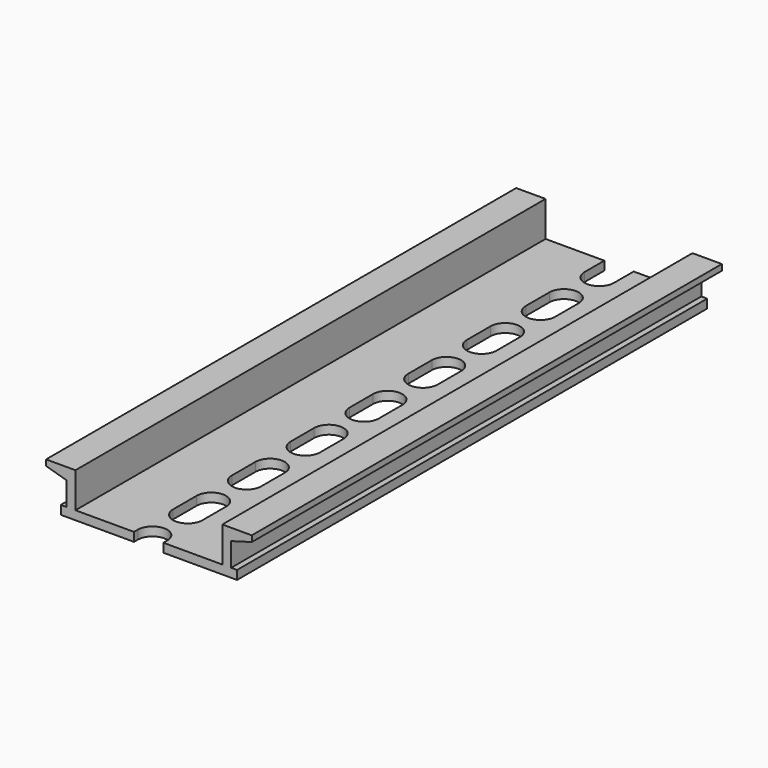
from build123d import *

# Parameters (mm, degrees)
PAD_DEPTH       = 100
POCKET_DEPTH    = 2
POCKET001_DEPTH = 3


with BuildPart() as part:
    # Sketch → Pad (new body)
    with BuildSketch(Plane.XZ):
        Polygon((0, 0), (-15, 0), (-15, 1.5), (-14, 1.5), (-14, 5.5), (-17.5, 6.5), (-17.5, 7.5), (-12.5, 7.5), (-12.5, 1.5), (0, 1.5), (12.5, 1.5), (12.5, 7.5), (17.5, 7.5), (17.51485, 6.5), (14, 5.5), (14, 1.5), (15, 1.5), (15, 0), align=None)
    extrude(amount=PAD_DEPTH)

    # Sketch001 (on Face10 of Pad) → Pocket (cut)
    with BuildSketch(Plane(origin=(0, 0, 1.5), x_dir=(-1, 0, 0), z_dir=(0, 0, 1))):
        with BuildLine():
            ThreePointArc((2.5, 4.187631), (0, 6.687631), (-2.5, 4.187631))
            Line((-2.5, 4.187631), (-2.5, -0.812369))
            ThreePointArc((-2.5, -0.812369), (0, -3.312369), (2.5, -0.812369))
            Line((2.5, 4.187631), (2.5, -0.812369))
        make_face()
        with BuildLine():
            ThreePointArc((2.50462, 16.68763), (0.00462, 19.18763), (-2.49538, 16.68763))
            Line((-2.49538, 16.68763), (-2.49538, 11.68763))
            ThreePointArc((-2.49538, 11.68763), (0.00462, 9.18763), (2.50462, 11.68763))
            Line((2.50462, 16.68763), (2.50462, 11.68763))
        make_face()
        with BuildLine():
            ThreePointArc((2.509241, 29.187629), (0.009241, 31.687629), (-2.490759, 29.187629))
            Line((-2.490759, 29.187629), (-2.490759, 24.187629))
            ThreePointArc((-2.490759, 24.187629), (0.009241, 21.687629), (2.509241, 24.187629))
            Line((2.509241, 29.187629), (2.509241, 24.187629))
        make_face()
        with BuildLine():
            ThreePointArc((2.513861, 41.687629), (0.013861, 44.187629), (-2.486139, 41.687629))
            Line((-2.486139, 41.687629), (-2.486139, 36.687629))
            ThreePointArc((-2.486139, 36.687629), (0.013861, 34.187629), (2.513861, 36.687629))
            Line((2.513861, 41.687629), (2.513861, 36.687629))
        make_face()
        with BuildLine():
            ThreePointArc((2.518482, 54.187628), (0.018482, 56.687628), (-2.481518, 54.187628))
            Line((-2.481518, 54.187628), (-2.481518, 49.187628))
            ThreePointArc((-2.481518, 49.187628), (0.018482, 46.687628), (2.518482, 49.187628))
            Line((2.518482, 54.187628), (2.518482, 49.187628))
        make_face()
        with BuildLine():
            ThreePointArc((2.523102, 66.687627), (0.023102, 69.187627), (-2.476898, 66.687627))
            Line((-2.476898, 66.687627), (-2.476898, 61.687627))
            ThreePointArc((-2.476898, 61.687627), (0.023102, 59.187627), (2.523102, 61.687627))
            Line((2.523102, 66.687627), (2.523102, 61.687627))
        make_face()
        with BuildLine():
            ThreePointArc((2.527723, 79.187626), (0.027723, 81.687626), (-2.472277, 79.187626))
            Line((-2.472277, 79.187626), (-2.472277, 74.187626))
            ThreePointArc((-2.472277, 74.187626), (0.027723, 71.687626), (2.527723, 74.187626))
            Line((2.527723, 79.187626), (2.527723, 74.187626))
        make_face()
        with BuildLine():
            ThreePointArc((2.532343, 91.687625), (0.032343, 94.187625), (-2.467657, 91.687625))
            Line((-2.467657, 91.687625), (-2.467657, 86.687625))
            ThreePointArc((-2.467657, 86.687625), (0.032343, 84.187625), (2.532343, 86.687625))
            Line((2.532343, 91.687625), (2.532343, 86.687625))
        make_face()
        with BuildLine():
            ThreePointArc((2.536964, 104.187624), (0.036964, 106.687624), (-2.463036, 104.187624))
            Line((-2.463036, 104.187624), (-2.463036, 99.187624))
            ThreePointArc((-2.463036, 99.187624), (0.036964, 96.687624), (2.536964, 99.187624))
            Line((2.536964, 104.187624), (2.536964, 99.187624))
        make_face()
        with BuildLine():
            ThreePointArc((2.541584, 116.687623), (0.041584, 119.187623), (-2.458416, 116.687623))
            Line((-2.458416, 116.687623), (-2.458416, 111.687623))
            ThreePointArc((-2.458416, 111.687623), (0.041584, 109.187623), (2.541584, 111.687623))
            Line((2.541584, 116.687623), (2.541584, 111.687623))
        make_face()
    extrude(amount=-POCKET_DEPTH, mode=Mode.SUBTRACT)

    # Sketch001 (on Face10 of Pad) → Pocket001 (cut)
    with BuildSketch(Plane(origin=(0, 0, 1.5), x_dir=(-1, 0, 0), z_dir=(0, 0, 1))):
        with BuildLine():
            ThreePointArc((2.5, 4.187631), (0, 6.687631), (-2.5, 4.187631))
            Line((-2.5, 4.187631), (-2.5, -0.812369))
            ThreePointArc((-2.5, -0.812369), (0, -3.312369), (2.5, -0.812369))
            Line((2.5, 4.187631), (2.5, -0.812369))
        make_face()
        with BuildLine():
            ThreePointArc((2.50462, 16.68763), (0.00462, 19.18763), (-2.49538, 16.68763))
            Line((-2.49538, 16.68763), (-2.49538, 11.68763))
            ThreePointArc((-2.49538, 11.68763), (0.00462, 9.18763), (2.50462, 11.68763))
            Line((2.50462, 16.68763), (2.50462, 11.68763))
        make_face()
        with BuildLine():
            ThreePointArc((2.509241, 29.187629), (0.009241, 31.687629), (-2.490759, 29.187629))
            Line((-2.490759, 29.187629), (-2.490759, 24.187629))
            ThreePointArc((-2.490759, 24.187629), (0.009241, 21.687629), (2.509241, 24.187629))
            Line((2.509241, 29.187629), (2.509241, 24.187629))
        make_face()
        with BuildLine():
            ThreePointArc((2.513861, 41.687629), (0.013861, 44.187629), (-2.486139, 41.687629))
            Line((-2.486139, 41.687629), (-2.486139, 36.687629))
            ThreePointArc((-2.486139, 36.687629), (0.013861, 34.187629), (2.513861, 36.687629))
            Line((2.513861, 41.687629), (2.513861, 36.687629))
        make_face()
        with BuildLine():
            ThreePointArc((2.518482, 54.187628), (0.018482, 56.687628), (-2.481518, 54.187628))
            Line((-2.481518, 54.187628), (-2.481518, 49.187628))
            ThreePointArc((-2.481518, 49.187628), (0.018482, 46.687628), (2.518482, 49.187628))
            Line((2.518482, 54.187628), (2.518482, 49.187628))
        make_face()
        with BuildLine():
            ThreePointArc((2.523102, 66.687627), (0.023102, 69.187627), (-2.476898, 66.687627))
            Line((-2.476898, 66.687627), (-2.476898, 61.687627))
            ThreePointArc((-2.476898, 61.687627), (0.023102, 59.187627), (2.523102, 61.687627))
            Line((2.523102, 66.687627), (2.523102, 61.687627))
        make_face()
        with BuildLine():
            ThreePointArc((2.527723, 79.187626), (0.027723, 81.687626), (-2.472277, 79.187626))
            Line((-2.472277, 79.187626), (-2.472277, 74.187626))
            ThreePointArc((-2.472277, 74.187626), (0.027723, 71.687626), (2.527723, 74.187626))
            Line((2.527723, 79.187626), (2.527723, 74.187626))
        make_face()
        with BuildLine():
            ThreePointArc((2.532343, 91.687625), (0.032343, 94.187625), (-2.467657, 91.687625))
            Line((-2.467657, 91.687625), (-2.467657, 86.687625))
            ThreePointArc((-2.467657, 86.687625), (0.032343, 84.187625), (2.532343, 86.687625))
            Line((2.532343, 91.687625), (2.532343, 86.687625))
        make_face()
        with BuildLine():
            ThreePointArc((2.536964, 104.187624), (0.036964, 106.687624), (-2.463036, 104.187624))
            Line((-2.463036, 104.187624), (-2.463036, 99.187624))
            ThreePointArc((-2.463036, 99.187624), (0.036964, 96.687624), (2.536964, 99.187624))
            Line((2.536964, 104.187624), (2.536964, 99.187624))
        make_face()
        with BuildLine():
            ThreePointArc((2.541584, 116.687623), (0.041584, 119.187623), (-2.458416, 116.687623))
            Line((-2.458416, 116.687623), (-2.458416, 111.687623))
            ThreePointArc((-2.458416, 111.687623), (0.041584, 109.187623), (2.541584, 111.687623))
            Line((2.541584, 116.687623), (2.541584, 111.687623))
        make_face()
    extrude(amount=-POCKET001_DEPTH, mode=Mode.SUBTRACT)


solid = part.part
